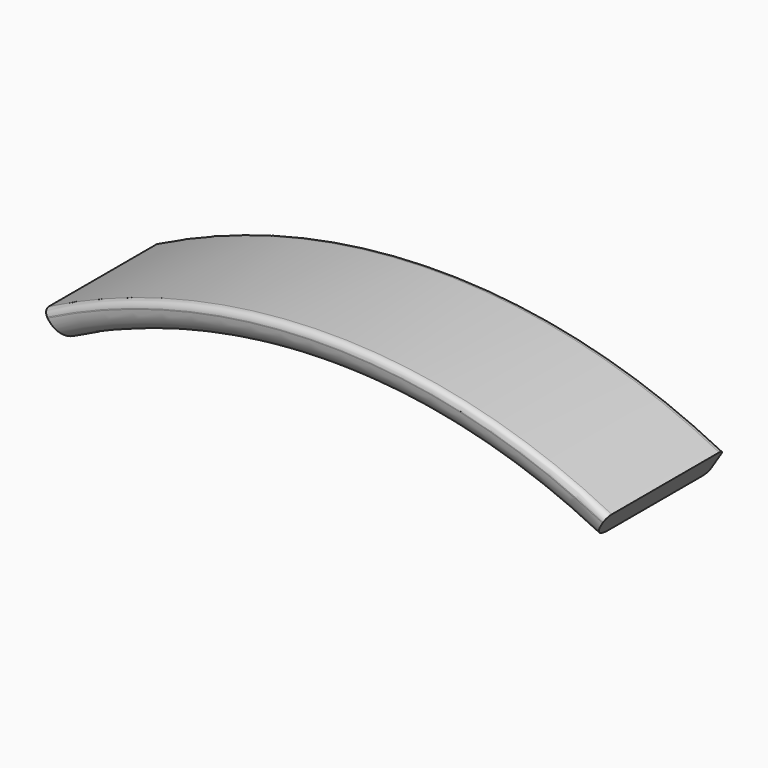
from build123d import *

# Parameters (mm, degrees)
F1_DEPTH = 114.3
F2_R     = 5.08
F3_R     = 17.78


with BuildPart() as f1:
    # F0 (on Front) → F1 (new body)
    with BuildSketch(Plane.XZ):
        with BuildLine():
            ThreePointArc((218.44, 133.495064), (0, 185.76179), (-218.44, 133.495064))
            Line((-218.44, 133.495064), (-205.74, 113.457282))
            ThreePointArc((-205.74, 113.457282), (0, 162.364627), (205.74, 113.457282))
            Line((205.74, 113.457282), (218.44, 133.495064))
        make_face()
    extrude(amount=-F1_DEPTH)

    # F2
    f2_edges = [f1.edges().sort_by_distance(p)[0] for p in [
        (0, 0, 185.76179),
        (0, 114.3, 162.364627),
        (0, 114.3, 185.76179),
    ]]
    fillet(f2_edges, radius=F2_R)

    # F3
    f3_edges = [f1.edges().sort_by_distance(p)[0] for p in [
        (0, 0, 162.364627),
    ]]
    fillet(f3_edges, radius=F3_R)


solid = f1.part
